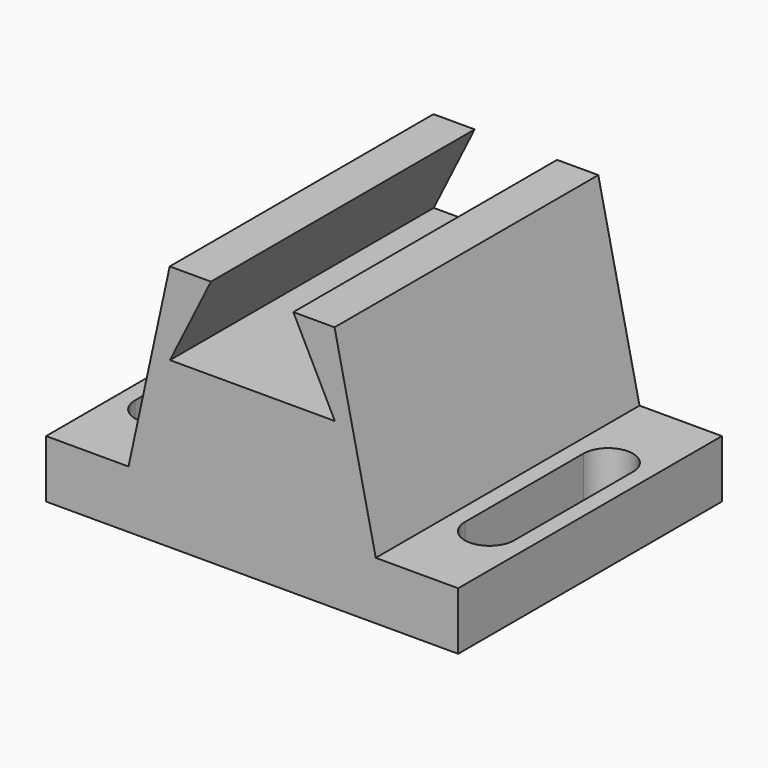
from build123d import *

# Parameters (mm, degrees)
PAD_DEPTH       = 40
POCKET_DEPTH    = 7.001
POCKET001_DEPTH = 7.001


with BuildPart() as part:
    # Sketch → Pad (new body)
    with BuildSketch(Plane.XZ):
        Polygon((-25, -16.524014), (25, -16.524014), (25, -9.524014), (15, -9.524014), (10, 13.475986), (5, 13.475986), (10.03446, 3.475986), (-9.96554, 3.475986), (-5, 13.475986), (-10, 13.475986), (-15, -9.524014), (-25, -9.524014), align=None)
    extrude(amount=PAD_DEPTH)

    # Sketch001 → Pocket (cut, through all)
    with BuildSketch(Plane(origin=(0, 0, -9.524014), x_dir=(-1, 0, 0), z_dir=(0, 0, 1))):
        with BuildLine():
            ThreePointArc((-17, 29), (-20, 32), (-23, 29))
            Line((-23, 29), (-23, 11))
            ThreePointArc((-23, 11), (-20, 8), (-17, 11))
            Line((-17, 29), (-17, 11))
        make_face()
    extrude(amount=-POCKET_DEPTH, mode=Mode.SUBTRACT)

    # Sketch002 → Pocket001 (cut, through all)
    with BuildSketch(Plane(origin=(0, 0, -9.524014), x_dir=(-1, 0, 0), z_dir=(0, 0, 1))):
        with BuildLine():
            ThreePointArc((23, 29), (20, 32), (17, 29))
            Line((17, 11), (17, 29))
            ThreePointArc((17, 11), (20, 8), (23, 11))
            Line((23, 29), (23, 11))
        make_face()
    extrude(amount=-POCKET001_DEPTH, mode=Mode.SUBTRACT)


solid = part.part
